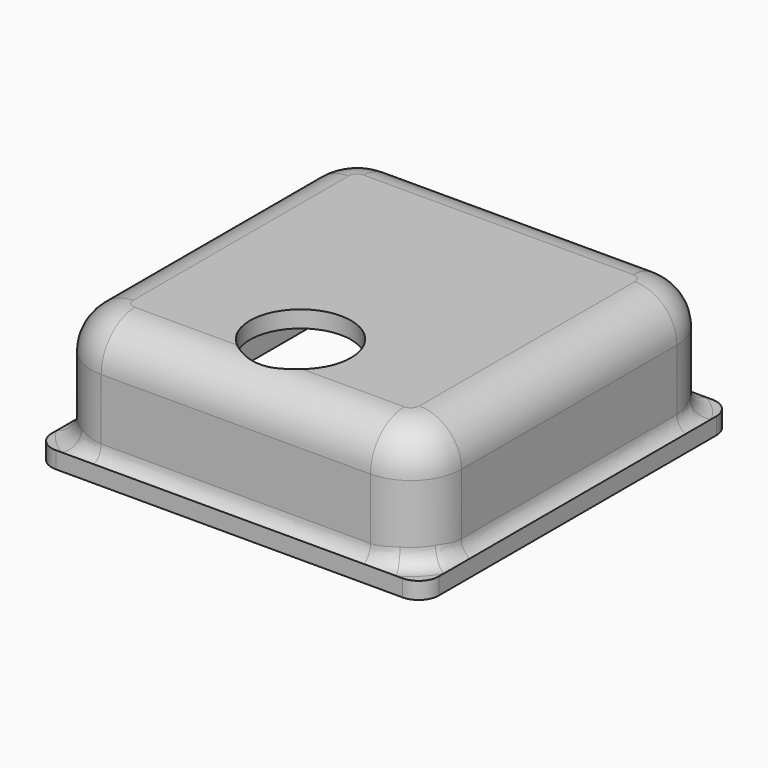
from build123d import *

# Parameters (mm, degrees)
SKETCH004_W  = 2
SKETCH004_H  = 2
PAD003_DEPTH = 0.7
FILLET004_R  = 0.3
FILLET005_R  = 0.25
SKETCH001_W  = 2.3
SKETCH001_H  = 2.3
PAD001_DEPTH = 0.1
SKETCH002_W  = 2.2
SKETCH002_H  = 2.2
PAD002_DEPTH = 0.7
FILLET_R     = 0.3
FILLET001_R  = 0.12
FILLET002_R  = 0.25
FILLET003_R  = 0.1
SKETCH003_R  = 0.3
POCKET_DEPTH = 0.7


with BuildPart() as body002:
    # Sketch004 (on Face1 of ReferencePad001) → Pad003 (new body)
    with BuildSketch(Plane.XY.offset(0.13)):
        Rectangle(SKETCH004_W, SKETCH004_H)
    extrude(amount=PAD003_DEPTH)

    # Fillet004
    fillet004_edges = [body002.edges().sort_by_distance(p)[0] for p in [
        (-1, 1, 0.48),
        (-1, -1, 0.48),
        (1, -1, 0.48),
        (1, 1, 0.48),
    ]]
    fillet(fillet004_edges, radius=FILLET004_R)

    # Fillet005
    fillet005_edges = [body002.edges().sort_by_distance(p)[0] for p in [
        (-1, 0, 0.83),
        (-0.912132, 0.912132, 0.83),
        (0, 1, 0.83),
        (0.912132, 0.912132, 0.83),
        (1, 0, 0.83),
        (0.912132, -0.912132, 0.83),
        (0, -1, 0.83),
        (-0.912132, -0.912132, 0.83),
    ]]
    fillet(fillet005_edges, radius=FILLET005_R)


with BuildPart() as hollow_metal_package:
    # Sketch001 (on Face1 of ReferencePad) → Pad001 (new body)
    with BuildSketch(Plane.XY.offset(0.13)):
        Rectangle(SKETCH001_W, SKETCH001_H)
    extrude(amount=PAD001_DEPTH)

    # Sketch002 (on Face6 of Pad001) → Pad002 (join)
    with BuildSketch(Plane.XY.offset(0.23)):
        Rectangle(SKETCH002_W, SKETCH002_H)
    extrude(amount=PAD002_DEPTH)

    # Fillet
    fillet_edges = [hollow_metal_package.edges().sort_by_distance(p)[0] for p in [
        (-1.1, 1.1, 0.58),
        (-1.1, -1.1, 0.58),
        (1.1, -1.1, 0.58),
        (1.1, 1.1, 0.58),
    ]]
    fillet(fillet_edges, radius=FILLET_R)

    # Fillet001
    fillet001_edges = [hollow_metal_package.edges().sort_by_distance(p)[0] for p in [
        (-1.15, 1.15, 0.18),
        (-1.15, -1.15, 0.18),
        (1.15, -1.15, 0.18),
        (1.15, 1.15, 0.18),
    ]]
    fillet(fillet001_edges, radius=FILLET001_R)

    # Fillet002
    fillet002_edges = [hollow_metal_package.edges().sort_by_distance(p)[0] for p in [
        (1.1, 0, 0.93),
        (1.012132, -1.012132, 0.93),
        (0, -1.1, 0.93),
        (0, 1.1, 0.93),
        (1.012132, 1.012132, 0.93),
        (-1.012132, 1.012132, 0.93),
        (-1.1, 0, 0.93),
        (-1.012132, -1.012132, 0.93),
    ]]
    fillet(fillet002_edges, radius=FILLET002_R)

    # Fillet003
    fillet003_edges = [hollow_metal_package.edges().sort_by_distance(p)[0] for p in [
        (0, 1.1, 0.23),
        (1.012132, 1.012132, 0.23),
        (1.1, 0, 0.23),
        (-1.012132, 1.012132, 0.23),
        (-1.1, 0, 0.23),
        (-1.012132, -1.012132, 0.23),
        (0, -1.1, 0.23),
        (1.012132, -1.012132, 0.23),
    ]]
    fillet(fillet003_edges, radius=FILLET003_R)

    # Sketch003 (on Face13 of Fillet003) → Pocket (cut)
    with BuildSketch(Plane.XY.offset(0.93)):
        with Locations((0, -0.62)):
            Circle(SKETCH003_R)
    extrude(amount=-POCKET_DEPTH, mode=Mode.SUBTRACT)

    # Cut: cut Body002
    add(body002.part, mode=Mode.SUBTRACT)


solid = hollow_metal_package.part
